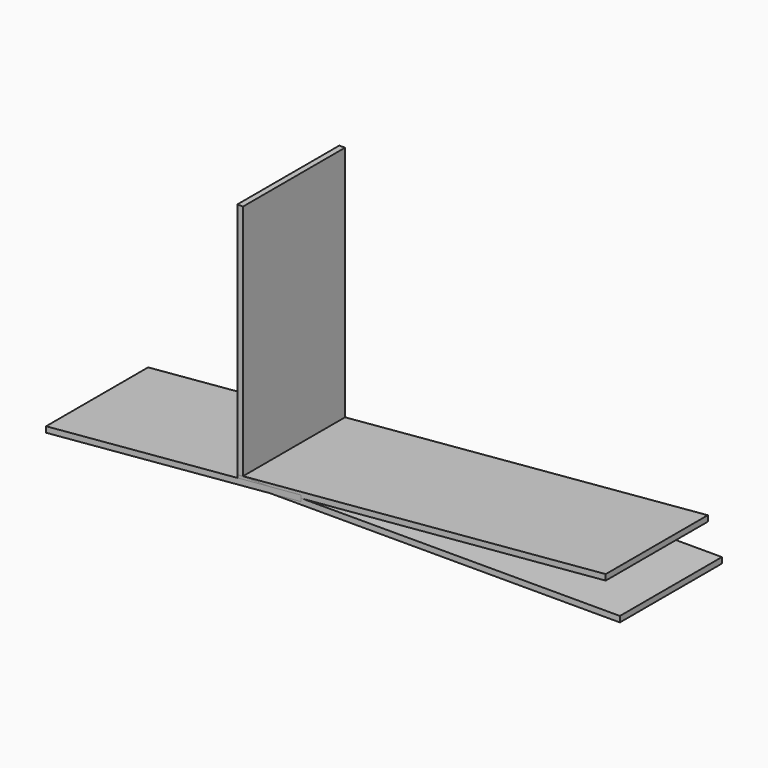
from build123d import *

# Parameters (mm, degrees)
F0_W     = 18
F0_H     = 400
F1_DEPTH = 764
F3_DEPTH = 400
F4_W     = 400
F4_H     = 18
F5_DEPTH = 1200
F7_DEPTH = 400


with BuildPart() as f1:
    # F0 (on Top) → F1 (new body)
    with BuildSketch(Plane.XY):
        with Locations((9, -200)):
            Rectangle(F0_W, F0_H)
    extrude(amount=F1_DEPTH)


with BuildPart() as f3:
    # F2 (on Front) → F3 (new body)
    with BuildSketch(Plane.XZ):
        Polygon((0, 18), (0, 0), (1155.58585, 101.100662), (1155.58585, 119.100662), align=None)
    extrude(amount=F3_DEPTH)


with BuildPart() as f5:
    # F4 (on Right) → F5 (new body)
    with BuildSketch(Plane.YZ):
        with Locations((-200, 9)):
            Rectangle(F4_W, F4_H)
    extrude(amount=F5_DEPTH)


with BuildPart() as f7:
    # F6 (on Front) → F7 (new body)
    with BuildSketch(Plane.XZ):
        Polygon((-599.709208, -43.467757), (-599.709208, -61.467757), (200.235134, 8.518304), (200.235134, 26.518304), align=None)
    extrude(amount=F7_DEPTH)


solid = Compound([f1.part, f3.part, f5.part, f7.part])
